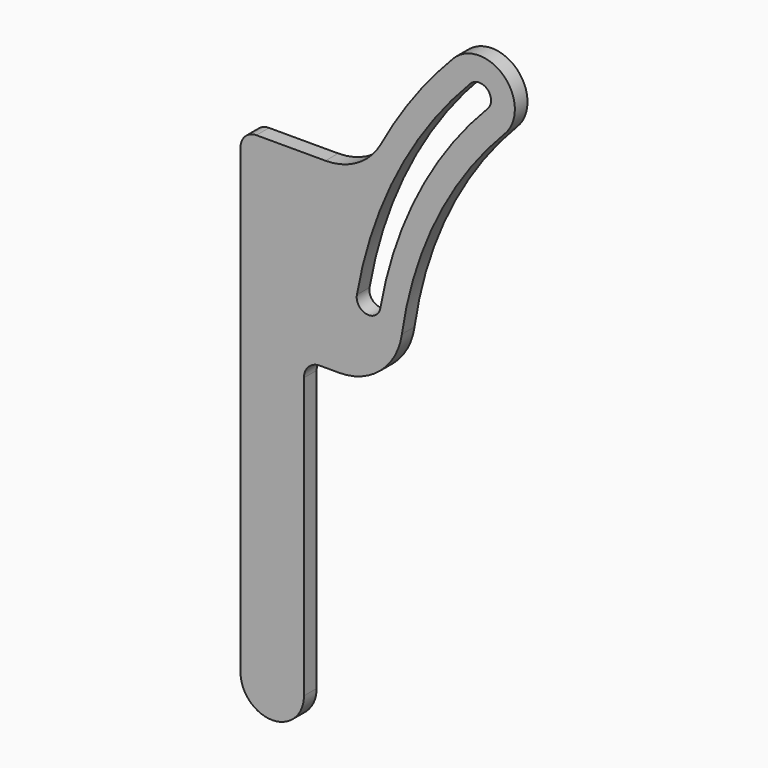
from build123d import *

# Parameters (mm, degrees)
F1_DEPTH = 6.35


with BuildPart() as f1:
    # F0 (on Front) → F1 (new body)
    with BuildSketch(Plane.XZ):
        with BuildLine():
            ThreePointArc((-12.7, 0), (0, -12.7), (12.7, 0))
            ThreePointArc((12.7, 0), (0, 12.7), (-12.7, 0))
        make_face()
        with BuildLine():
            ThreePointArc((-12.7, 0), (0, 12.7), (12.7, 0))
            Line((12.7, 0), (12.7, 112.144314))
            ThreePointArc((12.7, 112.144314), (14.559872, 116.634442), (19.05, 118.494314))
            Line((19.05, 118.494314), (26.783785, 118.494314))
            ThreePointArc((26.783785, 118.494314), (43.4118, 124.693556), (51.923194, 140.26525))
            ThreePointArc((51.923194, 140.26525), (65.87588, 185.485192), (93.029322, 224.243561))
            ThreePointArc((93.029322, 224.243561), (92.87646, 244.531306), (72.590114, 244.24826))
            ThreePointArc((72.590114, 244.24826), (56.781925, 225.496283), (43.654383, 204.779064))
            ThreePointArc((43.654383, 204.779064), (34.318751, 195.063102), (21.327169, 191.489205))
            Line((21.327169, 191.489205), (-6.35, 191.489205))
            ThreePointArc((-6.35, 191.489205), (-10.840128, 189.629333), (-12.7, 185.139205))
            Line((-12.7, 185.139205), (-12.7, 0))
        make_face()
        with BuildLine():
            ThreePointArc((33.891665, 148.272923), (49.985652, 196.356368), (79.439886, 237.629631))
            ThreePointArc((79.439886, 237.629631), (86.152519, 237.783267), (86.382982, 231.072833))
            ThreePointArc((86.382982, 231.072833), (86.307924, 230.993352), (86.231066, 230.915611))
            ThreePointArc((86.231066, 230.915611), (58.493253, 192.019748), (43.314661, 146.722013))
            ThreePointArc((43.314661, 146.722013), (43.296908, 146.614144), (43.276689, 146.50671))
            ThreePointArc((43.276689, 146.50671), (37.711122, 142.750714), (33.891665, 148.272923))
        make_face(mode=Mode.SUBTRACT)
    extrude(amount=F1_DEPTH)


solid = f1.part
